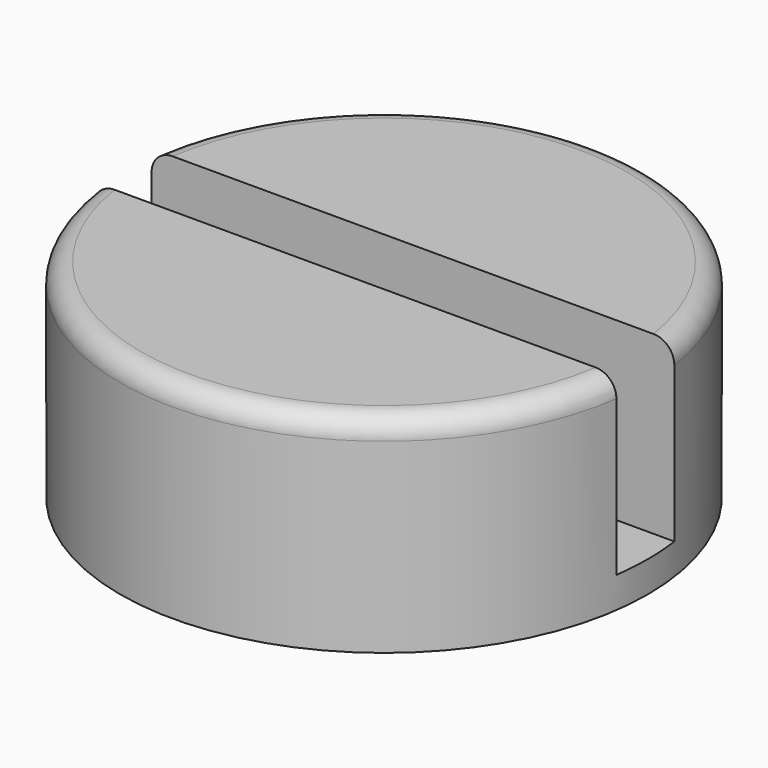
from build123d import *

# Parameters (mm, degrees)
SKETCH004_W  = 140.699818
SKETCH004_H  = 7
PAD007_DEPTH = 17
SKETCH006_W  = 100
SKETCH006_H  = 10
PAD005_DEPTH = 20
SKETCH005_R  = 22
PAD006_DEPTH = 17
SKETCH007_R  = 25.5
PAD004_DEPTH = 20
FILLET014_R  = 2
FILLET015_R  = 2
FILLET016_R  = 2
FILLET017_R  = 2
FILLET018_R  = 2
FILLET019_R  = 2


with BuildPart() as body007:
    # Sketch004 → Pad007 (new body)
    with BuildSketch(Plane.XY):
        with Locations((8.122221, 0)):
            Rectangle(SKETCH004_W, SKETCH004_H)
    extrude(amount=PAD007_DEPTH)


with BuildPart() as body007_1:
    # Body007 placement: moved
    add(body007.part.moved(Location((0, 0, 3))))


with BuildPart() as body004:
    # Sketch006 → Pad005 (new body)
    with BuildSketch(Plane.XY):
        Rectangle(SKETCH006_W, SKETCH006_H)
    extrude(amount=PAD005_DEPTH)


with BuildPart() as cut001:
    # Sketch005 → Pad006 (new body)
    with BuildSketch(Plane.XY):
        Circle(SKETCH005_R)
    extrude(amount=PAD006_DEPTH)

    # Cut001: cut Body004
    add(body004.part, mode=Mode.SUBTRACT)


with BuildPart() as fillet019:
    # Sketch007 → Pad004 (new body)
    with BuildSketch(Plane.XY):
        Circle(SKETCH007_R)
    extrude(amount=PAD004_DEPTH)

    # Cut002: cut Cut001
    add(cut001.part, mode=Mode.SUBTRACT)

    # Cut003: cut Body007
    add(body007_1.part, mode=Mode.SUBTRACT)


with BuildPart() as fillet019_1:
    # Cut003 placement: moved
    add(fillet019.part.moved(Location((25.5, 0, 0))))

    # Fillet014
    fillet014_edges = [fillet019_1.edges().sort_by_distance(p)[0] for p in [
        (25.5, -25.5, 20),
    ]]
    fillet(fillet014_edges, radius=FILLET014_R)

    # Fillet015
    fillet015_edges = [fillet019_1.edges().sort_by_distance(p)[0] for p in [
        (25.5, 25.5, 20),
    ]]
    fillet(fillet015_edges, radius=FILLET015_R)

    # Fillet016
    fillet016_edges = [fillet019_1.edges().sort_by_distance(p)[0] for p in [
        (25.5, -22, 17),
    ]]
    fillet(fillet016_edges, radius=FILLET016_R)

    # Fillet017
    fillet017_edges = [fillet019_1.edges().sort_by_distance(p)[0] for p in [
        (25.5, 22, 17),
    ]]
    fillet(fillet017_edges, radius=FILLET017_R)

    # Fillet018
    fillet018_edges = [fillet019_1.edges().sort_by_distance(p)[0] for p in [
        (25.5, -5, 17),
    ]]
    fillet(fillet018_edges, radius=FILLET018_R)

    # Fillet019
    fillet019_edges = [fillet019_1.edges().sort_by_distance(p)[0] for p in [
        (25.5, 5, 17),
    ]]
    fillet(fillet019_edges, radius=FILLET019_R)


solid = fillet019_1.part
